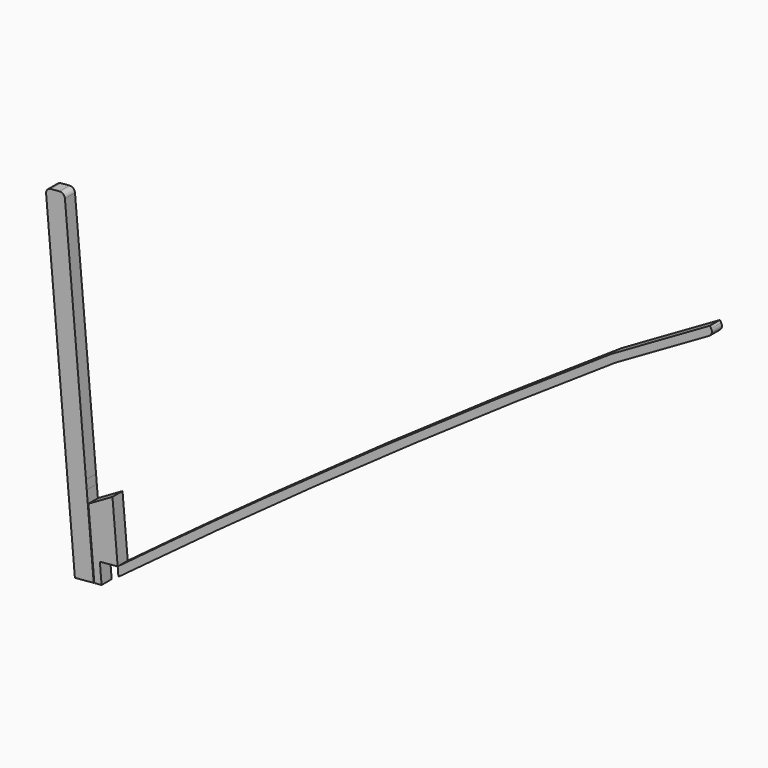
from build123d import *

# Parameters (mm, degrees)
F1_DEPTH = 25.4
F2_DEPTH = 25.4


with BuildPart() as f1:
    # F0 (on Front) → F1 (new body)
    with BuildSketch(Plane.XZ):
        with BuildLine():
            ThreePointArc((10.1213381326, 0.8855023463), (3.2238289368, -2.7051136719), (0.8855023463, -10.1213381326))
            Line((0.8855023463, -10.1213381326), (41.2345650726, -471.3132354613))
            Line((41.2345650726, -471.3132354613), (79.1895830699, -467.9926016626))
            Line((79.1895830699, -467.9926016626), (38.8405203436, -6.8007043339))
            ThreePointArc((38.8405203436, -6.8007043339), (35.2499043254, 0.0968048618), (27.8336798647, 2.4351314524))
            Line((27.8336798647, 2.4351314524), (10.1213381326, 0.8855023463))
        make_face()
        Polygon((79.1895830699, -467.9926016626), (41.2345650726, -471.3132354613), (44.898479083, -513.1919642333), (81.3050601101, -492.1726148771), align=None)
        Polygon((81.3050601101, -492.1726148771), (44.898479083, -513.1919642333), (82.8534970803, -509.8713304346), align=None)
        Polygon((82.8534970803, -509.8713304346), (44.898479083, -513.1919642333), (48.5623930934, -555.0706930054), (84.9689741205, -534.0513436491), align=None)
        Polygon((84.9689741205, -534.0513436491), (48.5623930934, -555.0706930054), (58.9446119989, -673.7399981135), (96.8996299962, -670.4193643148), align=None)
    extrude(amount=F1_DEPTH)


with BuildPart() as f1b:
    # F0 (on Front) → F1, piece 2 (new body)
    with BuildSketch(Plane.XZ):
        Polygon((134.7077027568, -505.3346752818), (86.1825268214, -533.3506986706), (98.1647972628, -670.3086765215), (112.8230853019, -669.0262424914), (109.2922927485, -628.669098936), (145.2230431193, -625.5255656066), align=None)
    extrude(amount=F1_DEPTH)


with BuildPart() as f2:
    # F0 (on Front) → F2 (new body)
    with BuildSketch(Plane.XZ):
        with BuildLine():
            ThreePointArc((439.3423579598, -409.2780954849), (291.8090295293, -516.7575881279), (145.2230431193, -625.5255656065))
            Line((145.2230431193, -625.5255656065), (146.7865641876, -643.3966931935))
            ThreePointArc((146.7865641876, -643.3966931935), (642.809083417, -282.897416364), (1149.2336477768, 62.8369163109))
            Line((1149.2336477769, 62.8369163109), (1338.5965837165, 172.1346969222))
            ThreePointArc((1338.5965837165, 172.1346969222), (1343.3313079414, 178.3039346931), (1342.3164809091, 186.0141379494))
            Line((1342.3164809091, 186.0141379494), (1339.7771039383, 190.4124678825))
            Line((1339.7771039383, 190.4124678825), (1326.0289506532, 182.4749678825))
            Line((1326.0289506532, 182.4749678825), (1154.5752996996, 83.4861563509))
            Line((1154.5752996996, 83.4861563509), (1140.8271464145, 75.5486563509))
            ThreePointArc((1140.8271464145, 75.5486563509), (787.6039445937, -163.2752955443), (439.3423579598, -409.2780954849))
        make_face()
    extrude(amount=F2_DEPTH)


solid = Compound([f1.part, f1b.part, f2.part])
